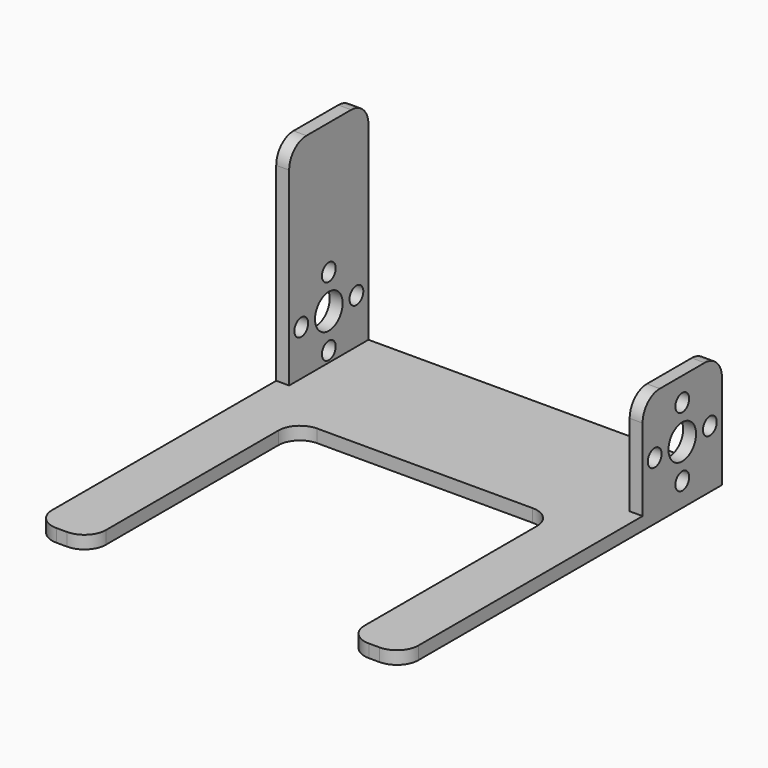
from build123d import *

# Parameters (mm, degrees)
F0_W     = 85
F0_H     = 23
F1_DEPTH = 3
F2_W     = 3
F2_H     = 23
F3_DEPTH = 24
F4_W     = 3
F4_H     = 23
F5_DEPTH = 25
F6_R     = 4
F6_R_2   = 2
F7_DEPTH = 100
F8_R     = 5


with BuildPart() as f1:
    # F0 (on Top) → F1 (new body)
    with BuildSketch(Plane.XY):
        with Locations((42.5, 11.5)):
            Rectangle(F0_W, F0_H)
        with BuildLine():
            Line((85, 0), (0, 0))
            Line((0, 0), (0, -10))
            Line((0, -10), (0, -65))
            ThreePointArc((0, -65), (1.464466, -68.535534), (5, -70))
            Line((5, -70), (7.5, -70))
            ThreePointArc((7.5, -70), (11.035534, -68.535534), (12.5, -65))
            Line((12.5, -65), (12.5, -15))
            ThreePointArc((12.5, -15), (13.964466, -11.464466), (17.5, -10))
            Line((17.5, -10), (67.5, -10))
            ThreePointArc((67.5, -10), (71.035534, -11.464466), (72.5, -15))
            Line((72.5, -15), (72.5, -65))
            ThreePointArc((72.5, -65), (73.964466, -68.535534), (77.5, -70))
            Line((77.5, -70), (80, -70))
            ThreePointArc((80, -70), (83.535534, -68.535534), (85, -65))
            Line((85, -65), (85, -10))
            Line((85, -10), (85, 0))
        make_face()
    extrude(amount=F1_DEPTH)

    # F2 (on face) → F3 (join)
    with BuildSketch(Plane.XY.offset(3)):
        with Locations((1.5, 11.5)):
            Rectangle(F2_W, F2_H)
        with Locations((83.5, 11.5)):
            Rectangle(F2_W, F2_H)
    extrude(amount=F3_DEPTH)

    # F4 (on face) → F5 (join)
    with BuildSketch(Plane.XY.offset(27)):
        with Locations((1.5, 11.5)):
            Rectangle(F4_W, F4_H)
    extrude(amount=F5_DEPTH)

    # F6 (on face) → F7 (cut)
    with BuildSketch(Plane.YZ.offset(85)):
        with Locations((11.5, 13.5)):
            Circle(F6_R)
        with Locations((19.5, 13.5)):
            Circle(F6_R_2)
        with Locations((11.5, 21.5)):
            Circle(F6_R_2)
        with Locations((3.5, 13.5)):
            Circle(F6_R_2)
        with Locations((11.5, 5.5)):
            Circle(F6_R_2)
    extrude(amount=-F7_DEPTH, mode=Mode.SUBTRACT)

    # F8
    f8_edges = [f1.edges().sort_by_distance(p)[0] for p in [
        (83.5, 0, 27),
        (83.5, 23, 27),
        (1.5, 23, 52),
        (1.5, 0, 52),
    ]]
    fillet(f8_edges, radius=F8_R)


solid = f1.part
